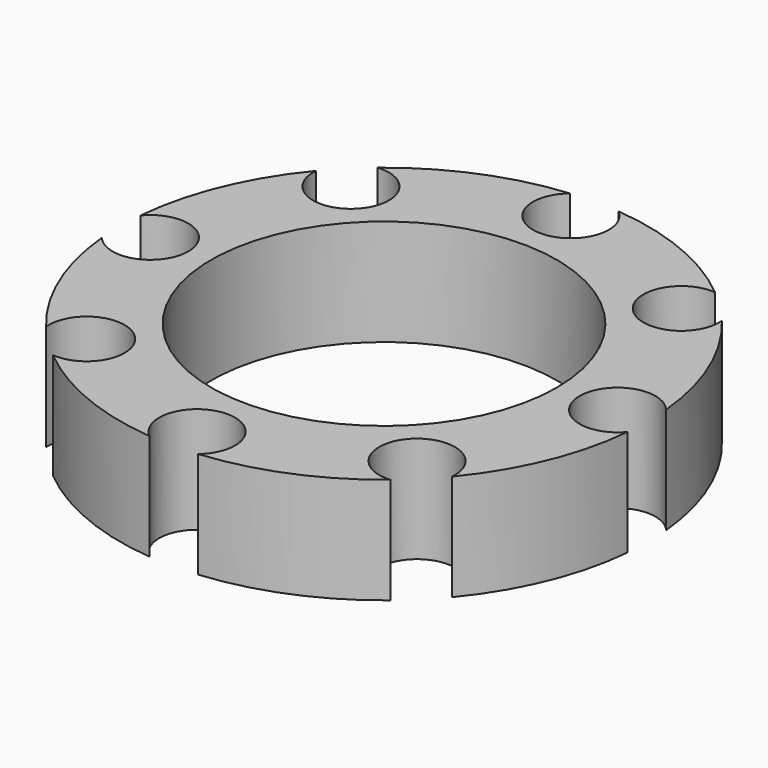
from build123d import *

# Parameters (mm, degrees)
F0_R     = 11.4
F1_DEPTH = 7


with BuildPart() as f1:
    # F0 (on Top) → F1 (new body)
    with BuildSketch(Plane.XY):
        with BuildLine():
            ThreePointArc((17.326948, -1.592756), (12.9, 0), (17.326948, 1.592756))
            ThreePointArc((17.326948, 1.592756), (16.075504, 6.658692), (13.378251, 11.125754))
            ThreePointArc((13.378251, 11.125754), (13.386644, 11.007732), (13.389444, 10.889444))
            ThreePointArc((13.389444, 10.889444), (9.040016, 9.207299), (11.125754, 13.378251))
            ThreePointArc((11.125754, 13.378251), (6.658692, 16.075504), (1.592756, 17.326948))
            ThreePointArc((1.592756, 17.326948), (2.261845, 16.46492), (2.5, 15.4))
            ThreePointArc((2.5, 15.4), (-1.06492, 13.138155), (-1.592756, 17.326948))
            ThreePointArc((-1.592756, 17.326948), (-6.658692, 16.075504), (-11.125754, 13.378251))
            ThreePointArc((-11.125754, 13.378251), (-9.207299, 12.738873), (-8.389444, 10.889444))
            ThreePointArc((-8.389444, 10.889444), (-11.007732, 8.392244), (-13.378251, 11.125754))
            ThreePointArc((-13.378251, 11.125754), (-16.075504, 6.658692), (-17.326948, 1.592756))
            ThreePointArc((-17.326948, 1.592756), (-14.553646, 2.352379), (-12.9, 0))
            ThreePointArc((-12.9, 0), (-14.553646, -2.352379), (-17.326948, -1.592756))
            ThreePointArc((-17.326948, -1.592756), (-16.075504, -6.658692), (-13.378251, -11.125754))
            ThreePointArc((-13.378251, -11.125754), (-11.007732, -8.392244), (-8.389444, -10.889444))
            ThreePointArc((-8.389444, -10.889444), (-9.207299, -12.738873), (-11.125754, -13.378251))
            ThreePointArc((-11.125754, -13.378251), (-6.658692, -16.075504), (-1.592756, -17.326948))
            ThreePointArc((-1.592756, -17.326948), (-1.06492, -13.138155), (2.5, -15.4))
            ThreePointArc((2.5, -15.4), (2.261845, -16.46492), (1.592756, -17.326948))
            ThreePointArc((1.592756, -17.326948), (6.658692, -16.075504), (11.125754, -13.378251))
            ThreePointArc((11.125754, -13.378251), (9.040016, -9.207299), (13.389444, -10.889444))
            ThreePointArc((13.389444, -10.889444), (13.386644, -11.007732), (13.378251, -11.125754))
            ThreePointArc((13.378251, -11.125754), (16.075504, -6.658692), (17.326948, -1.592756))
        make_face()
        Circle(F0_R, mode=Mode.SUBTRACT)
    extrude(amount=F1_DEPTH)


solid = f1.part
